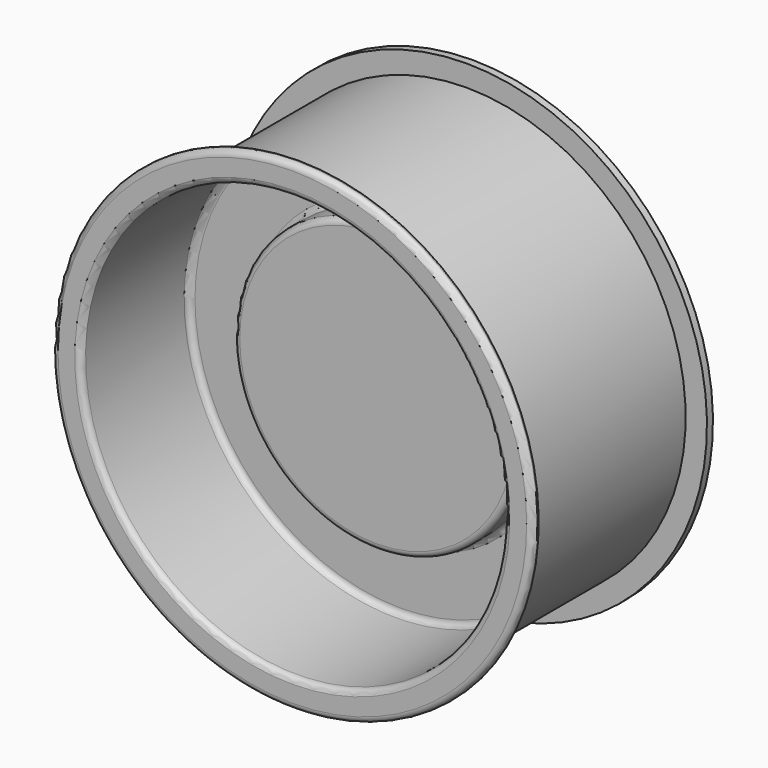
from build123d import *

# Parameters (mm, degrees)
F2_R = 2.54


with BuildPart() as f1:
    # F0 (on Right) → F1 (revolve)
    with BuildSketch(Plane.YZ):
        Polygon((-3.175, 0), (0, 0), (0, 57.15), (12.7, 57.15), (12.7, 89.419909), (47.625, 89.419909), (47.625, 101.6), (44.45, 101.6), (44.45, 92.594909), (-44.45, 92.594909), (-44.45, 101.6), (-47.625, 101.6), (-47.625, 89.419909), (9.525, 89.419909), (9.525, 60.325), (-3.175, 60.325), align=None)
    revolve(axis=Axis((0, -1.5875, 0), (0, 1, 0)))

    # F2
    f2_edges = [f1.edges().sort_by_distance(p)[0] for p in [
        (0, -47.625, -101.6),
        (0, -47.625, -89.419909),
        (0, 9.525, -89.419909),
        (0, 9.525, -60.325),
        (0, -3.175, -60.325),
    ]]
    fillet(f2_edges, radius=F2_R)


solid = f1.part
